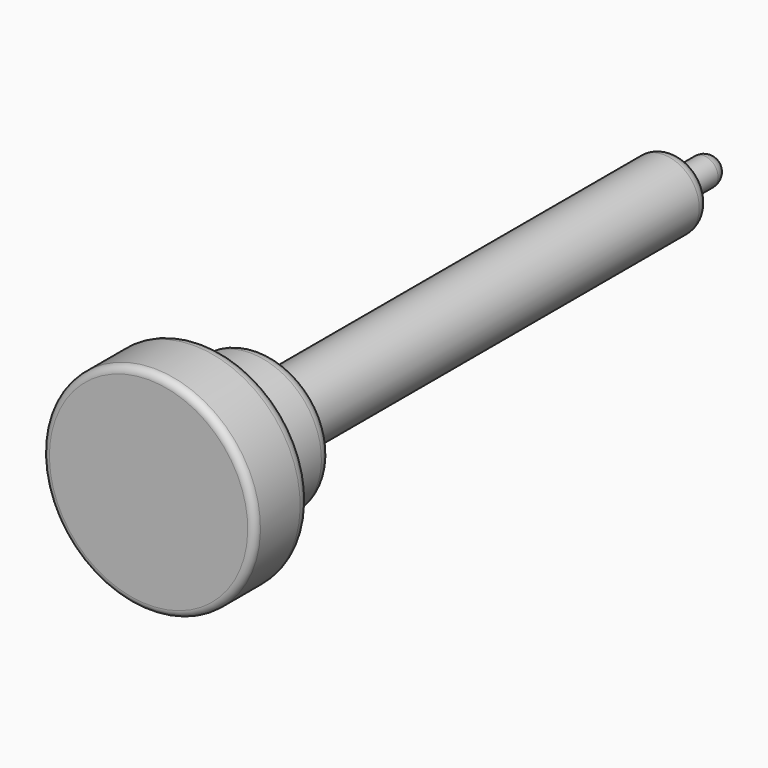
from build123d import *


with BuildPart() as f1:
    # F0 (on Right) → F1 (revolve)
    with BuildSketch(Plane.YZ):
        with BuildLine():
            Line((0, 7), (0, 0))
            Line((0, 0), (50, 0))
            ThreePointArc((50, 0), (49.707107, 0.707107), (49, 1))
            Line((49, 1), (47, 1))
            Line((47, 1), (46.296867, 2.0547))
            ThreePointArc((46.296867, 2.0547), (45.936674, 2.381675), (45.464816, 2.5))
            Line((45.464816, 2.5), (10.5, 2.5))
            ThreePointArc((10.5, 2.5), (10.146447, 2.646447), (10, 3))
            Line((10, 3), (10, 4))
            ThreePointArc((10, 4), (9.707107, 4.707107), (9, 5))
            Line((9, 5), (5.25, 5))
            ThreePointArc((5.25, 5), (5.073223, 5.073223), (5, 5.25))
            Line((5, 5.25), (5, 6.5))
            ThreePointArc((5, 6.5), (4.707107, 7.207107), (4, 7.5))
            Line((4, 7.5), (0.5, 7.5))
            ThreePointArc((0.5, 7.5), (0.146447, 7.353553), (0, 7))
        make_face()
    revolve(axis=Axis((0, 25, 0), (0, 1, 0)))


solid = f1.part
